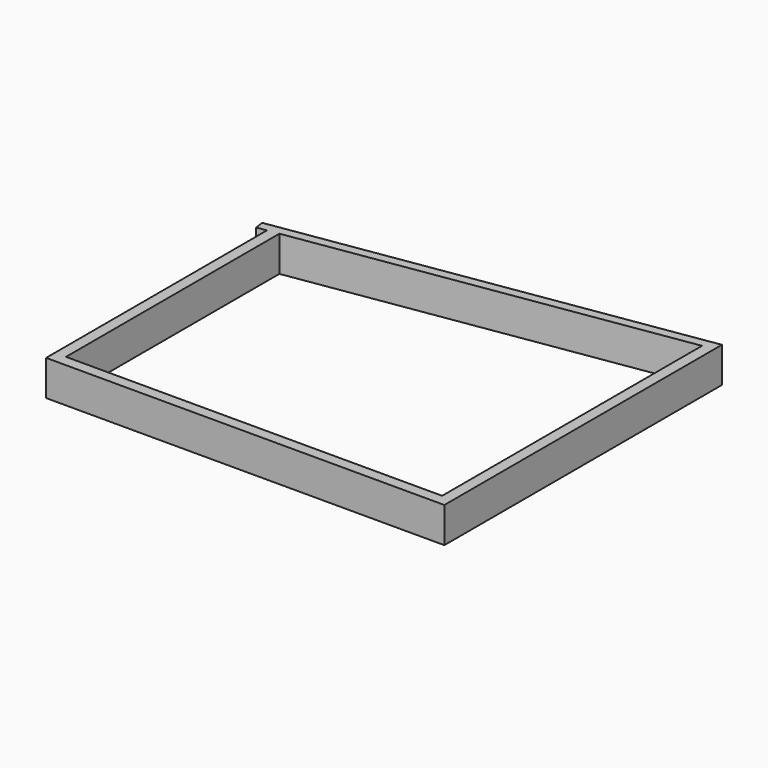
from build123d import *

# Parameters (mm, degrees)
PAD_DEPTH = 8


with BuildPart() as part:
    # Sketch → Pad (new body)
    with BuildSketch(Plane.XY):
        Polygon((0, 0), (0, 62.386111), (-2.151834, 62.053772), (-2.470707, 64.118413), (0, 64.5), (90, 78.4), (90, 0), align=None)
        Polygon((2.5, 2.5), (87.5, 2.5), (87.5, 75.9), (2.5, 62.772222), align=None, mode=Mode.SUBTRACT)
    extrude(amount=PAD_DEPTH)


solid = part.part
